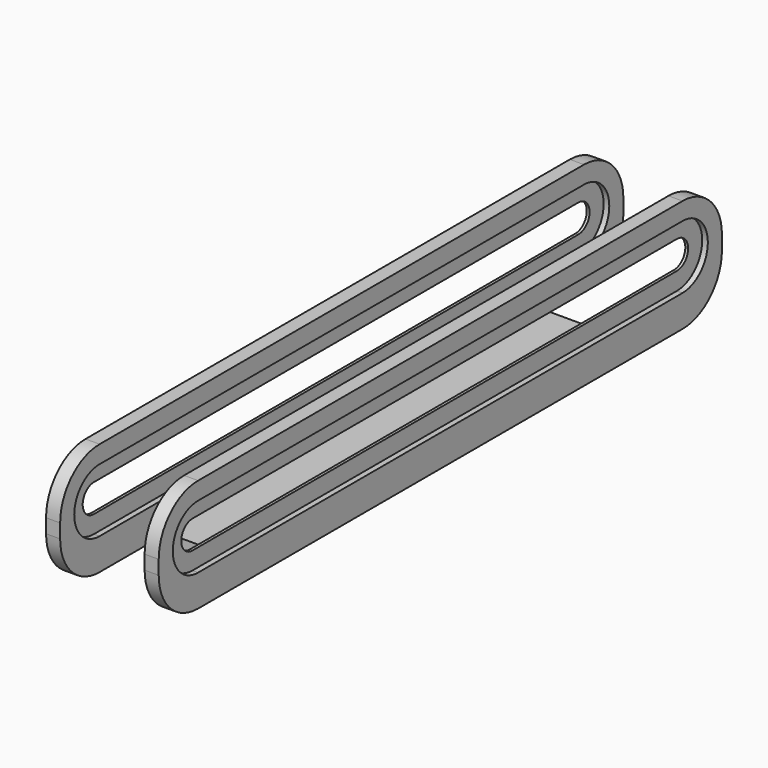
from build123d import *

# Parameters (mm, degrees)
F1_DEPTH      = 125
F1_DEPTH_BACK = 125
F6_DEPTH      = 5.001
F7_DEPTH      = 5.001
F8_DEPTH      = 2
F9_DEPTH      = 2
F10_DEPTH     = 2
F11_DEPTH     = 2
F12_W         = 30
F12_H         = 40
F13_DEPTH     = 40.001
F14_R         = 17.5


with BuildPart() as f1:
    # F0 (on Front) → F1 (new body, two sides)
    with BuildSketch(Plane.XZ) as f1_sk:
        Polygon((-20, -20), (20, -20), (20, 20), (15, 20), (15, -15), (-15, -15), (-15, 20), (-20, 20), align=None)
    extrude(amount=F1_DEPTH)
    extrude(f1_sk.sketch, amount=-F1_DEPTH_BACK)

    # F3 (on face) → F6 (cut, through all)
    with BuildSketch(Plane(origin=(15, 0, 0), x_dir=(0, -1, 0), z_dir=(-1, 0, 0))):
        with BuildLine():
            Line((107.5, 7.5), (0, 7.5))
            Line((0, 7.5), (-107.5, 7.5))
            ThreePointArc((-107.5, 7.5), (-112.5, 2.5), (-107.5, -2.5))
            Line((-107.5, -2.5), (0, -2.5))
            Line((0, -2.5), (107.5, -2.5))
            ThreePointArc((107.5, -2.5), (112.5, 2.5), (107.5, 7.5))
        make_face()
    extrude(amount=-F6_DEPTH, mode=Mode.SUBTRACT)

    # F2 (on face) → F7 (cut, through all)
    with BuildSketch(Plane.YZ.offset(-15)):
        with BuildLine():
            Line((107.5, 7.5), (0, 7.5))
            Line((0, 7.5), (-107.5, 7.5))
            ThreePointArc((-107.5, 7.5), (-112.5, 2.5), (-107.5, -2.5))
            Line((-107.5, -2.5), (0, -2.5))
            Line((0, -2.5), (107.5, -2.5))
            ThreePointArc((107.5, -2.5), (112.5, 2.5), (107.5, 7.5))
        make_face()
    extrude(amount=-F7_DEPTH, mode=Mode.SUBTRACT)

    # F3 (on face) → F8 (cut)
    with BuildSketch(Plane(origin=(15, 0, 0), x_dir=(0, -1, 0), z_dir=(-1, 0, 0))):
        with BuildLine():
            Line((107.5, 13.75), (0, 13.75))
            Line((0, 13.75), (-107.5, 13.75))
            ThreePointArc((-107.5, 13.75), (-118.75, 2.5), (-107.5, -8.75))
            Line((-107.5, -8.75), (0, -8.75))
            Line((0, -8.75), (107.5, -8.75))
            ThreePointArc((107.5, -8.75), (118.75, 2.5), (107.5, 13.75))
        make_face()
        with BuildLine():
            Line((-107.5, 7.5), (0, 7.5))
            Line((0, 7.5), (107.5, 7.5))
            ThreePointArc((107.5, 7.5), (112.5, 2.5), (107.5, -2.5))
            Line((107.5, -2.5), (0, -2.5))
            Line((0, -2.5), (-107.5, -2.5))
            ThreePointArc((-107.5, -2.5), (-112.5, 2.5), (-107.5, 7.5))
        make_face(mode=Mode.SUBTRACT)
    extrude(amount=-F8_DEPTH, mode=Mode.SUBTRACT)

    # F2 (on face) → F9 (cut)
    with BuildSketch(Plane.YZ.offset(-15)):
        with BuildLine():
            Line((107.5, 13.75), (0, 13.75))
            Line((0, 13.75), (-107.5, 13.75))
            ThreePointArc((-107.5, 13.75), (-118.75, 2.5), (-107.5, -8.75))
            Line((-107.5, -8.75), (0, -8.75))
            Line((0, -8.75), (107.5, -8.75))
            ThreePointArc((107.5, -8.75), (118.75, 2.5), (107.5, 13.75))
        make_face()
        with BuildLine():
            Line((-107.5, 7.5), (0, 7.5))
            Line((0, 7.5), (107.5, 7.5))
            ThreePointArc((107.5, 7.5), (112.5, 2.5), (107.5, -2.5))
            Line((107.5, -2.5), (0, -2.5))
            Line((0, -2.5), (-107.5, -2.5))
            ThreePointArc((-107.5, -2.5), (-112.5, 2.5), (-107.5, 7.5))
        make_face(mode=Mode.SUBTRACT)
    extrude(amount=-F9_DEPTH, mode=Mode.SUBTRACT)

    # F4 (on face) → F10 (cut)
    with BuildSketch(Plane(origin=(-20, 0, 0), x_dir=(0, -1, 0), z_dir=(-1, 0, 0))):
        with BuildLine():
            Line((107.5, 13.75), (0, 13.75))
            Line((0, 13.75), (-107.5, 13.75))
            ThreePointArc((-107.5, 13.75), (-118.75, 2.5), (-107.5, -8.75))
            Line((-107.5, -8.75), (0, -8.75))
            Line((0, -8.75), (107.5, -8.75))
            ThreePointArc((107.5, -8.75), (118.75, 2.5), (107.5, 13.75))
        make_face()
        with BuildLine():
            Line((-107.5, 7.5), (0, 7.5))
            Line((0, 7.5), (107.5, 7.5))
            ThreePointArc((107.5, 7.5), (112.5, 2.5), (107.5, -2.5))
            Line((107.5, -2.5), (0, -2.5))
            Line((0, -2.5), (-107.5, -2.5))
            ThreePointArc((-107.5, -2.5), (-112.5, 2.5), (-107.5, 7.5))
        make_face(mode=Mode.SUBTRACT)
    extrude(amount=-F10_DEPTH, mode=Mode.SUBTRACT)

    # F5 (on face) → F11 (cut)
    with BuildSketch(Plane.YZ.offset(20)):
        with BuildLine():
            Line((107.5, 13.75), (0, 13.75))
            Line((0, 13.75), (-107.5, 13.75))
            ThreePointArc((-107.5, 13.75), (-118.75, 2.5), (-107.5, -8.75))
            Line((-107.5, -8.75), (0, -8.75))
            Line((0, -8.75), (107.5, -8.75))
            ThreePointArc((107.5, -8.75), (118.75, 2.5), (107.5, 13.75))
        make_face()
        with BuildLine():
            Line((-107.5, 7.5), (0, 7.5))
            Line((0, 7.5), (107.5, 7.5))
            ThreePointArc((107.5, 7.5), (112.5, 2.5), (107.5, -2.5))
            Line((107.5, -2.5), (0, -2.5))
            Line((0, -2.5), (-107.5, -2.5))
            ThreePointArc((-107.5, -2.5), (-112.5, 2.5), (-107.5, 7.5))
        make_face(mode=Mode.SUBTRACT)
    extrude(amount=-F11_DEPTH, mode=Mode.SUBTRACT)

    # F12 (on face) → F13 (cut, through all)
    with BuildSketch(Plane(origin=(0, 0, -20), x_dir=(1, 0, 0), z_dir=(0, 0, -1))):
        with Locations((0, -105)):
            Rectangle(F12_W, F12_H)
        with Locations((0, 105)):
            Rectangle(F12_W, F12_H)
    extrude(amount=-F13_DEPTH, mode=Mode.SUBTRACT)

    # F14
    f14_edges = [f1.edges().sort_by_distance(p)[0] for p in [
        (-17.5, 125, -20),
        (17.5, 125, -20),
        (-17.5, 125, 20),
        (17.5, 125, 20),
        (17.5, -125, -20),
        (-17.5, -125, -20),
        (17.5, -125, 20),
        (-17.5, -125, 20),
    ]]
    fillet(f14_edges, radius=F14_R)


solid = f1.part
